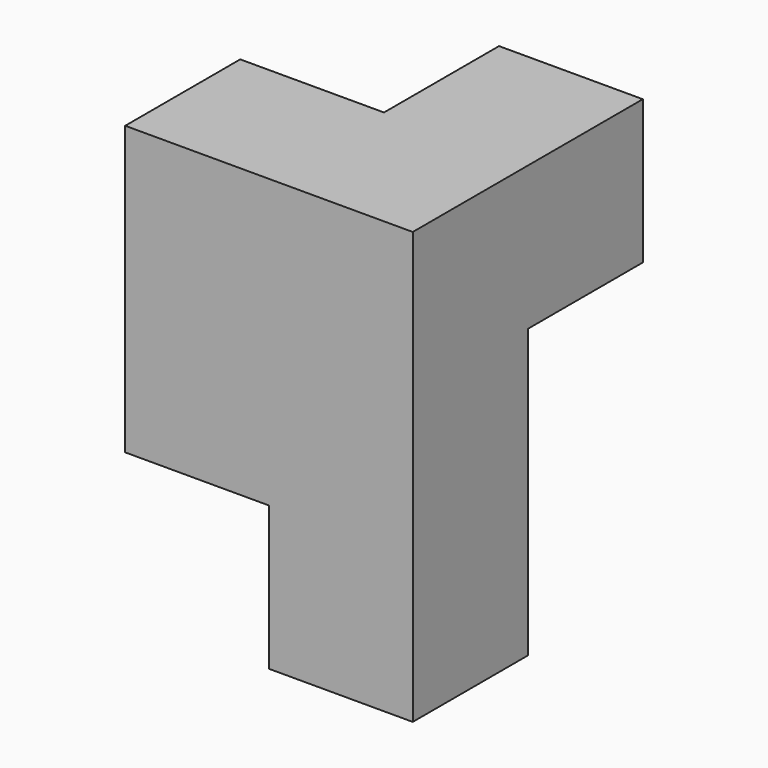
from build123d import *

# Parameters (mm, degrees)
F0_W      = 12
F0_H      = 12
F1_DEPTH  = 12
F2_W      = 12
F2_H      = 12
F3_DEPTH  = 12
F5_W      = 12
F5_H      = 12
F6_DEPTH  = 12
F4_W      = 12
F4_H      = 12
F7_DEPTH  = 12
F8_W      = 12
F8_H      = 12
F9_DEPTH  = 12
F10_W     = 12
F10_H     = 12
F11_DEPTH = 12


with BuildPart() as f1:
    # F0 (on Top) → F1 (new body)
    with BuildSketch(Plane.XY):
        with Locations((0.6655273028, -38.8918708836)):
            Rectangle(F0_W, F0_H)
    extrude(amount=F1_DEPTH)

    # F2 (on face) → F3 (join)
    with BuildSketch(Plane.XY.offset(12)):
        with Locations((0.6655273028, -38.8918708836)):
            Rectangle(F2_W, F2_H)
    extrude(amount=F3_DEPTH)

    # F5 (on face) → F6 (join)
    with BuildSketch(Plane(origin=(-5.3344726972, 0, 0), x_dir=(0, -1, 0), z_dir=(-1, 0, 0))):
        with Locations((38.8918708836, 18)):
            Rectangle(F5_W, F5_H)
    extrude(amount=F6_DEPTH)

    # F4 (on face) → F7 (join)
    with BuildSketch(Plane.XY.offset(24)):
        with Locations((0.6655273028, -38.8918708836)):
            Rectangle(F4_W, F4_H)
    extrude(amount=F7_DEPTH)

    # F8 (on face) → F9 (join)
    with BuildSketch(Plane.XY.offset(24)):
        with Locations((-11.3344726972, -38.8918708836)):
            Rectangle(F8_W, F8_H)
    extrude(amount=F9_DEPTH)

    # F10 (on face) → F11 (join)
    with BuildSketch(Plane(origin=(0, -32.8918708836, 0), x_dir=(-1, 0, 0), z_dir=(0, 1, 0))):
        with Locations((-0.6655273028, 30)):
            Rectangle(F10_W, F10_H)
    extrude(amount=F11_DEPTH)


solid = f1.part
